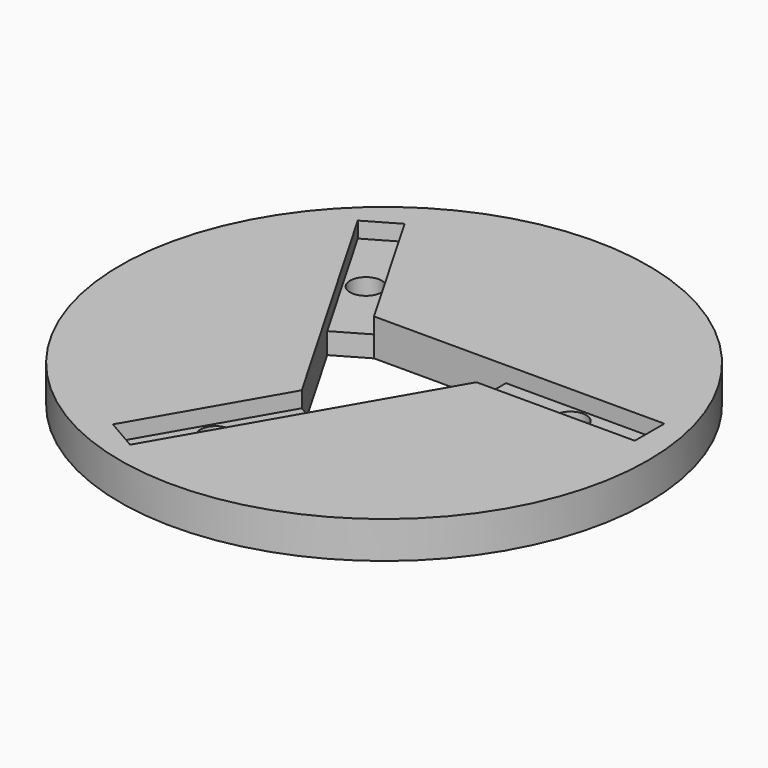
from build123d import *

# Parameters (mm, degrees)
SKETCH_R        = 50
PAD_DEPTH       = 7
POCKET_DEPTH    = 7.001
SKETCH005_W     = 30
SKETCH005_H     = 7
POCKET001_DEPTH = 3
SKETCH030_R     = 3
POCKET022_DEPTH = 15


with BuildPart() as part:
    # Sketch → Pad (new body)
    with BuildSketch(Plane.XY):
        with Locations((54.312531, 53.68195)):
            Circle(SKETCH_R)
    extrude(amount=PAD_DEPTH)

    # Sketch004 (on Face3 of Pad) → Pocket (cut, through all)
    with BuildSketch(Plane.XY.offset(7)):
        Polygon((56.333257, 35.748194), (68.833257, 57.398829), (68.833257, 64.398829), (43.833257, 64.398829), (37.771079, 60.898829), (50.271079, 39.248194), align=None)
    extrude(amount=-POCKET_DEPTH, mode=Mode.SUBTRACT)

    # Sketch005 (on Face3 of Pocket) → Pocket001 (cut)
    with BuildSketch(Plane.XY.offset(7)):
        with Locations((83.833257, 60.898829)):
            Rectangle(SKETCH005_W, SKETCH005_H)
        Polygon((56.333257, 35.748194), (41.333257, 9.767432), (35.271079, 13.267432), (50.271079, 39.248194), align=None)
        Polygon((37.771079, 60.898829), (22.771079, 86.879591), (28.833257, 90.379591), (43.833257, 64.398829), align=None)
    extrude(amount=-POCKET001_DEPTH, mode=Mode.SUBTRACT)

    # Sketch030 (on Face3 of Pocket001) → Pocket022 (cut)
    with BuildSketch(Plane.XY.offset(7)):
        with Locations((45.802168, 24.507813)):
            Circle(SKETCH030_R)
        with Locations((33.302168, 75.63921)):
            Circle(SKETCH030_R)
        with Locations((83.833257, 60.898829)):
            Circle(SKETCH030_R)
    extrude(amount=-POCKET022_DEPTH, mode=Mode.SUBTRACT)


solid = part.part
